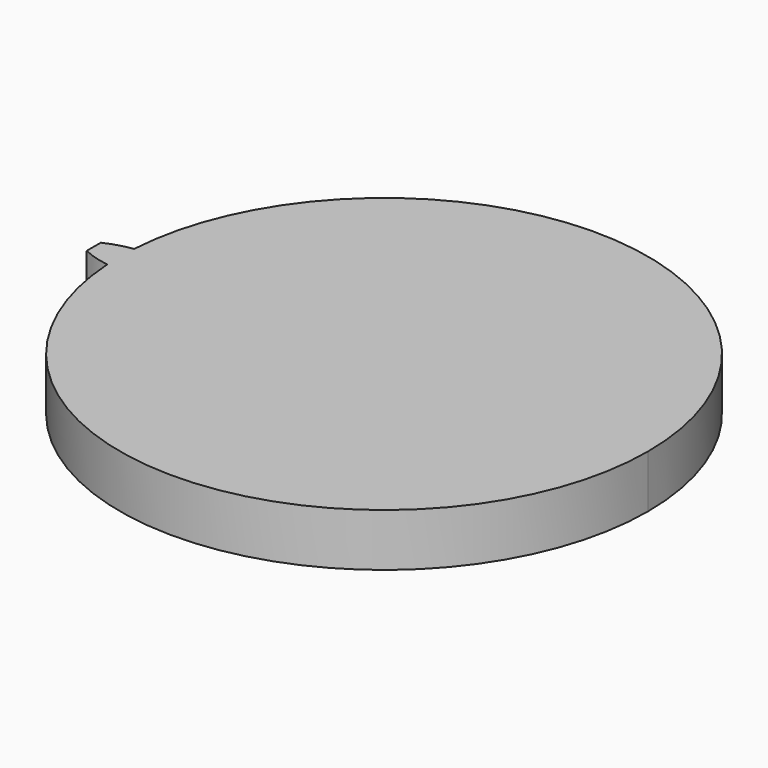
from build123d import *

# Parameters (mm, degrees)
F0_R     = 30
F1_DEPTH = 6
F3_DEPTH = 6


with BuildPart() as f1:
    # F0 (on Top) → F1 (new body)
    with BuildSketch(Plane.XY):
        Circle(F0_R)
    extrude(amount=F1_DEPTH)

    # F2 (on face) → F3 (join)
    with BuildSketch(Plane.XY.offset(6)):
        with BuildLine():
            Line((-33, 1), (-33, -1))
            ThreePointArc((-33, -1), (-31.505194, -1.572543), (-29.939441, -1.905215))
            ThreePointArc((-29.939441, -1.905215), (-30, 0), (-29.939441, 1.905215))
            ThreePointArc((-29.939441, 1.905215), (-31.505194, 1.572543), (-33, 1))
        make_face()
    extrude(amount=-F3_DEPTH)


solid = f1.part
